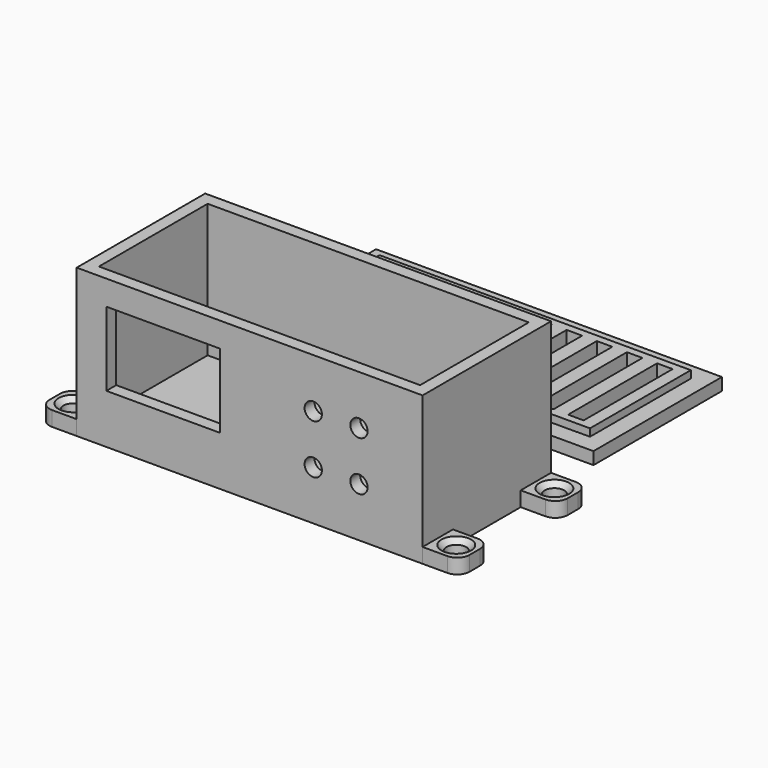
from build123d import *

# Parameters (mm, degrees)
F0_R      = 4
F0_W      = 5
F0_H      = 5
F0_W_2    = 130
F1_DEPTH  = 6
F2_SIZE   = 2
F2_2_SIZE = 2
F2_3_SIZE = 2
F3_DEPTH  = 60
F0_H_2    = 55
F4_DEPTH  = 6
F5_W      = 46
F5_H      = 30
F5_R      = 3.5
F6_DEPTH  = 5
F7_R      = 3.75
F8_DEPTH  = 5
F0_W_3    = 7
F0_H_3    = 7
F0_H_4    = 51
F9_DEPTH  = 5
F0_W_4    = 6.3
F0_H_5    = 45
F0_W_5    = 5.9
F0_W_6    = 1.9635334134
F0_W_7    = 1.9364665866
F0_H_6    = 3
F10_DEPTH = 8
F11_DEPTH = 25


with BuildPart() as f1:
    # F0 (on Top) → F1 (new body)
    with BuildSketch(Plane.XY):
        with BuildLine():
            Line((-70, 27.5), (-70, 32.5))
            Line((-70, 32.5), (-80, 32.5))
            ThreePointArc((-80, 32.5), (-83.5355339059, 31.0355339059), (-85, 27.5))
            Line((-85, 27.5), (-85, 22.1345490962))
            ThreePointArc((-85, 22.1345490962), (-83.5355339059, 18.5990151903), (-80, 17.1345490962))
            Line((-80, 17.1345490962), (-70, 17.1345490962))
            Line((-70, 17.1345490962), (-70, 27.5))
        make_face()
        with Locations((-77.5, 24.8172745481)):
            Circle(F0_R, mode=Mode.SUBTRACT)
        with Locations((-67.5, 30)):
            Rectangle(F0_W, F0_H)
        with Locations((0, 30)):
            Rectangle(F0_W_2, F0_H)
        with Locations((67.5, 30)):
            Rectangle(F0_W, F0_H)
        with BuildLine():
            Line((80, 32.5), (70, 32.5))
            Line((70, 32.5), (70, 27.5))
            Line((70, 27.5), (70, 17.1345490962))
            Line((70, 17.1345490962), (80, 17.1345490962))
            ThreePointArc((80, 17.1345490962), (83.5355339059, 18.5990151903), (85, 22.1345490962))
            Line((85, 22.1345490962), (85, 27.5))
            ThreePointArc((85, 27.5), (83.5355339059, 31.0355339059), (80, 32.5))
        make_face()
        with Locations((77.5, 24.8172745481)):
            Circle(F0_R, mode=Mode.SUBTRACT)
    extrude(amount=F1_DEPTH)

    # F2
    f2_edges = [f1.edges().sort_by_distance(p)[0] for p in [
        (-81.5, 24.817275, 6),
        (73.5, 24.817275, 6),
    ]]
    chamfer(f2_edges, length=F2_SIZE)


with BuildPart() as f1b:
    # F0 (on Top) → F1, piece 2 (new body)
    with BuildSketch(Plane.XY):
        with BuildLine():
            Line((-70, -27.5), (-70, -17.1345490962))
            Line((-70, -17.1345490962), (-80, -17.1345490962))
            ThreePointArc((-80, -17.1345490962), (-83.5355339059, -18.5990151903), (-85, -22.1345490962))
            Line((-85, -22.1345490962), (-85, -27.5))
            ThreePointArc((-85, -27.5), (-83.5355339059, -31.0355339059), (-80, -32.5))
            Line((-80, -32.5), (-70, -32.5))
            Line((-70, -32.5), (-70, -27.5))
        make_face()
        with Locations((-77.5, -24.8172745481)):
            Circle(F0_R, mode=Mode.SUBTRACT)
    extrude(amount=F1_DEPTH)

    # F2#2
    f2_2_edges = [f1b.edges().sort_by_distance(p)[0] for p in [
        (-81.5, -24.817275, 6),
    ]]
    chamfer(f2_2_edges, length=F2_2_SIZE)


with BuildPart() as f1c:
    # F0 (on Top) → F1, piece 3 (new body)
    with BuildSketch(Plane.XY):
        with BuildLine():
            Line((70, -17.1345490962), (70, -27.5))
            Line((70, -27.5), (70, -32.5))
            Line((70, -32.5), (80, -32.5))
            ThreePointArc((80, -32.5), (83.5355339059, -31.0355339059), (85, -27.5))
            Line((85, -27.5), (85, -22.1345490962))
            ThreePointArc((85, -22.1345490962), (83.5355339059, -18.5990151903), (80, -17.1345490962))
            Line((80, -17.1345490962), (70, -17.1345490962))
        make_face()
        with Locations((77.5, -24.8172745481)):
            Circle(F0_R, mode=Mode.SUBTRACT)
    extrude(amount=F1_DEPTH)

    # F2#3
    f2_3_edges = [f1c.edges().sort_by_distance(p)[0] for p in [
        (73.5, -24.817275, 6),
    ]]
    chamfer(f2_3_edges, length=F2_3_SIZE)


with BuildPart() as f3:
    # F0 (on Top) → F3 (new body)
    with BuildSketch(Plane.XY):
        Polygon((-65, 27.5), (-70, 27.5), (-70, 17.1345490962), (-70, -17.1345490962), (-70, -27.5), (-65, -27.5), align=None)
        with Locations((0, -30)):
            Rectangle(F0_W_2, F0_H)
        with Locations((-67.5, -30)):
            Rectangle(F0_W, F0_H)
        with Locations((67.5, -30)):
            Rectangle(F0_W, F0_H)
        Polygon((70, 27.5), (65, 27.5), (65, -27.5), (70, -27.5), (70, -17.1345490962), (70, 17.1345490962), align=None)
        with Locations((67.5, 30)):
            Rectangle(F0_W, F0_H)
        with Locations((0, 30)):
            Rectangle(F0_W_2, F0_H)
        with Locations((-67.5, 30)):
            Rectangle(F0_W, F0_H)
    extrude(amount=F3_DEPTH)

    # F5 (on face) → F6 (cut)
    with BuildSketch(Plane.XZ.offset(32.5)):
        with Locations((-35, 35)):
            Rectangle(F5_W, F5_H)
        with Locations((25.75, 40)):
            Circle(F5_R)
        with Locations((25.75, 20)):
            Circle(F5_R)
        with BuildLine():
            ThreePointArc((47.75, 40), (44.25, 43.5), (40.75, 40))
            ThreePointArc((40.75, 40), (44.25, 36.5), (47.75, 40))
        make_face()
        with BuildLine():
            ThreePointArc((47.75, 20), (44.25, 23.5), (40.75, 20))
            ThreePointArc((40.75, 20), (44.25, 16.5), (47.75, 20))
        make_face()
    extrude(amount=-F6_DEPTH, mode=Mode.SUBTRACT)

    # F7 (on face) → F8 (cut)
    with BuildSketch(Plane(origin=(0, 32.5, 0), x_dir=(-1, 0, 0), z_dir=(0, 1, 0))):
        with Locations((0, 14.525502791)):
            Circle(F7_R)
    extrude(amount=-F8_DEPTH, mode=Mode.SUBTRACT)


with BuildPart() as f4:
    # F0 (on Top) → F4 (new body)
    with BuildSketch(Plane.XY):
        Rectangle(F0_W_2, F0_H_2)
    extrude(amount=F4_DEPTH)


with BuildPart() as f9:
    # F0 (on Top) → F9 (new body)
    with BuildSketch(Plane.XY):
        with Locations((66.5, 115.4563803077)):
            Rectangle(F0_W_3, F0_H_3)
        Polygon((63, 118.9563803077), (-63, 118.9563803077), (-63, 112.5258132815), (-63, 111.9563803077), (-58.0635334134, 111.9563803077), (-51.7635334134, 111.9563803077), (-45.8635334134, 111.9563803077), (-39.5635334134, 111.9563803077), (-33.6635334134, 111.9563803077), (-27.3635334134, 111.9563803077), (-21.4635334134, 111.9563803077), (-15.1635334134, 111.9563803077), (-9.2635334134, 111.9563803077), (-2.9635334134, 111.9563803077), (2.9364665866, 111.9563803077), (9.2364665866, 111.9563803077), (15.1364665866, 111.9563803077), (21.4364665866, 111.9563803077), (27.3364665866, 111.9563803077), (33.6364665866, 111.9563803077), (39.5364665866, 111.9563803077), (45.8364665866, 111.9563803077), (51.7364665866, 111.9563803077), (58.0364665866, 111.9563803077), (63, 111.9563803077), align=None)
        with Locations((66.5, 86.4563803077)):
            Rectangle(F0_W_3, F0_H_4)
        with Locations((66.5, 57.4563803077)):
            Rectangle(F0_W_3, F0_H_3)
        Polygon((63, 53.9563803077), (63, 60.9563803077), (58.0364665866, 60.9563803077), (58.0364665866, 60.9103041655), (51.7364665866, 60.9103041655), (45.8364665866, 60.9103041655), (39.5364665866, 60.9103041655), (33.6364665866, 60.9103041655), (27.3364665866, 60.9103041655), (21.4364665866, 60.9103041655), (15.1364665866, 60.9103041655), (9.2364665866, 60.9103041655), (2.9364665866, 60.9103041655), (-2.9635334134, 60.9103041655), (-9.2635334134, 60.9103041655), (-15.1635334134, 60.9103041655), (-21.4635334134, 60.9103041655), (-27.3635334134, 60.9103041655), (-33.6635334134, 60.9103041655), (-39.5635334134, 60.9103041655), (-45.8635334134, 60.9103041655), (-51.7635334134, 60.9103041655), (-58.0635334134, 60.9103041655), (-63, 60.9103041655), (-63, 53.9563803077), align=None)
        Polygon((-63, 60.9563803077), (-70, 60.9563803077), (-70, 53.9563803077), (-63, 53.9563803077), (-63, 60.9103041655), align=None)
        with Locations((-66.5, 86.4563803077)):
            Rectangle(F0_W_3, F0_H_4)
        Polygon((-63, 118.9563803077), (-70, 118.9563803077), (-70, 111.9563803077), (-63, 111.9563803077), (-63, 112.5258132815), align=None)
    extrude(amount=F9_DEPTH)

    # F0 (on Top) → F10 (join)
    with BuildSketch(Plane.XY):
        with Locations((-54.9135334134, 86.4563803077)):
            Rectangle(F0_W_4, F0_H_5)
        with Locations((-48.8135334134, 86.4563803077)):
            Rectangle(F0_W_5, F0_H_5)
        with Locations((-42.7135334134, 86.4563803077)):
            Rectangle(F0_W_4, F0_H_5)
        with Locations((-36.6135334134, 86.4563803077)):
            Rectangle(F0_W_5, F0_H_5)
        with Locations((-30.5135334134, 86.4563803077)):
            Rectangle(F0_W_4, F0_H_5)
        with Locations((-24.4135334134, 86.4563803077)):
            Rectangle(F0_W_5, F0_H_5)
        with Locations((-18.3135334134, 86.4563803077)):
            Rectangle(F0_W_4, F0_H_5)
        with Locations((-12.2135334134, 86.4563803077)):
            Rectangle(F0_W_5, F0_H_5)
        with Locations((-6.1135334134, 86.4563803077)):
            Rectangle(F0_W_4, F0_H_5)
        with Locations((-0.0135334134, 86.4563803077)):
            Rectangle(F0_W_5, F0_H_5)
        with Locations((6.0864665866, 86.4563803077)):
            Rectangle(F0_W_4, F0_H_5)
        with Locations((12.1864665866, 86.4563803077)):
            Rectangle(F0_W_5, F0_H_5)
        with Locations((18.2864665866, 86.4563803077)):
            Rectangle(F0_W_4, F0_H_5)
        with Locations((24.3864665866, 86.4563803077)):
            Rectangle(F0_W_5, F0_H_5)
        with Locations((30.4864665866, 86.4563803077)):
            Rectangle(F0_W_4, F0_H_5)
        with Locations((36.5864665866, 86.4563803077)):
            Rectangle(F0_W_5, F0_H_5)
        with Locations((42.6864665866, 86.4563803077)):
            Rectangle(F0_W_4, F0_H_5)
        with Locations((48.7864665866, 86.4563803077)):
            Rectangle(F0_W_5, F0_H_5)
        with Locations((54.8864665866, 86.4563803077)):
            Rectangle(F0_W_4, F0_H_5)
        with Locations((59.0182332933, 86.4563803077)):
            Rectangle(F0_W_6, F0_H_5)
        Polygon((63, 60.9563803077), (63, 111.9563803077), (58.0364665866, 111.9563803077), (58.0364665866, 108.9563803077), (60, 108.9563803077), (60, 63.9563803077), (58.0364665866, 63.9563803077), (58.0364665866, 60.9563803077), align=None)
        Polygon((-58.0635334134, 111.9563803077), (-63, 111.9563803077), (-63, 60.9563803077), (-58.0635334134, 60.9563803077), (-58.0635334134, 63.9563803077), (-60, 63.9563803077), (-60, 108.9563803077), (-58.0635334134, 108.9563803077), align=None)
        with Locations((-59.0317667067, 86.4563803077)):
            Rectangle(F0_W_7, F0_H_5)
        with Locations((-54.9135334134, 62.4563803077)):
            Rectangle(F0_W_4, F0_H_6)
        with Locations((-48.8135334134, 62.4563803077)):
            Rectangle(F0_W_5, F0_H_6)
        with Locations((-42.7135334134, 62.4563803077)):
            Rectangle(F0_W_4, F0_H_6)
        with Locations((-36.6135334134, 62.4563803077)):
            Rectangle(F0_W_5, F0_H_6)
        with Locations((-30.5135334134, 62.4563803077)):
            Rectangle(F0_W_4, F0_H_6)
        with Locations((-24.4135334134, 62.4563803077)):
            Rectangle(F0_W_5, F0_H_6)
        with Locations((-18.3135334134, 62.4563803077)):
            Rectangle(F0_W_4, F0_H_6)
        with Locations((-12.2135334134, 62.4563803077)):
            Rectangle(F0_W_5, F0_H_6)
        with Locations((-6.1135334134, 62.4563803077)):
            Rectangle(F0_W_4, F0_H_6)
        with Locations((-0.0135334134, 62.4563803077)):
            Rectangle(F0_W_5, F0_H_6)
        with Locations((6.0864665866, 62.4563803077)):
            Rectangle(F0_W_4, F0_H_6)
        with Locations((12.1864665866, 62.4563803077)):
            Rectangle(F0_W_5, F0_H_6)
        with Locations((18.2864665866, 62.4563803077)):
            Rectangle(F0_W_4, F0_H_6)
        with Locations((24.3864665866, 62.4563803077)):
            Rectangle(F0_W_5, F0_H_6)
        with Locations((30.4864665866, 62.4563803077)):
            Rectangle(F0_W_4, F0_H_6)
        with Locations((36.5864665866, 62.4563803077)):
            Rectangle(F0_W_5, F0_H_6)
        with Locations((42.6864665866, 62.4563803077)):
            Rectangle(F0_W_4, F0_H_6)
        with Locations((48.7864665866, 62.4563803077)):
            Rectangle(F0_W_5, F0_H_6)
        with Locations((54.8864665866, 62.4563803077)):
            Rectangle(F0_W_4, F0_H_6)
        with Locations((54.8864665866, 110.4563803077)):
            Rectangle(F0_W_4, F0_H_6)
        with Locations((48.7864665866, 110.4563803077)):
            Rectangle(F0_W_5, F0_H_6)
        with Locations((42.6864665866, 110.4563803077)):
            Rectangle(F0_W_4, F0_H_6)
        with Locations((36.5864665866, 110.4563803077)):
            Rectangle(F0_W_5, F0_H_6)
        with Locations((30.4864665866, 110.4563803077)):
            Rectangle(F0_W_4, F0_H_6)
        with Locations((24.3864665866, 110.4563803077)):
            Rectangle(F0_W_5, F0_H_6)
        with Locations((18.2864665866, 110.4563803077)):
            Rectangle(F0_W_4, F0_H_6)
        with Locations((12.1864665866, 110.4563803077)):
            Rectangle(F0_W_5, F0_H_6)
        with Locations((6.0864665866, 110.4563803077)):
            Rectangle(F0_W_4, F0_H_6)
        with Locations((-0.0135334134, 110.4563803077)):
            Rectangle(F0_W_5, F0_H_6)
        with Locations((-6.1135334134, 110.4563803077)):
            Rectangle(F0_W_4, F0_H_6)
        with Locations((-12.2135334134, 110.4563803077)):
            Rectangle(F0_W_5, F0_H_6)
        with Locations((-18.3135334134, 110.4563803077)):
            Rectangle(F0_W_4, F0_H_6)
        with Locations((-24.4135334134, 110.4563803077)):
            Rectangle(F0_W_5, F0_H_6)
        with Locations((-30.5135334134, 110.4563803077)):
            Rectangle(F0_W_4, F0_H_6)
        with Locations((-54.9135334134, 110.4563803077)):
            Rectangle(F0_W_4, F0_H_6)
        with Locations((-48.8135334134, 110.4563803077)):
            Rectangle(F0_W_5, F0_H_6)
        with Locations((-42.7135334134, 110.4563803077)):
            Rectangle(F0_W_4, F0_H_6)
        with Locations((-36.6135334134, 110.4563803077)):
            Rectangle(F0_W_5, F0_H_6)
    extrude(amount=F10_DEPTH)

    # F0 (on Top) → F11 (cut)
    with BuildSketch(Plane.XY):
        with Locations((54.8864665866, 86.4563803077)):
            Rectangle(F0_W_4, F0_H_5)
        with Locations((42.6864665866, 86.4563803077)):
            Rectangle(F0_W_4, F0_H_5)
        with Locations((30.4864665866, 86.4563803077)):
            Rectangle(F0_W_4, F0_H_5)
        with Locations((18.2864665866, 86.4563803077)):
            Rectangle(F0_W_4, F0_H_5)
        with Locations((6.0864665866, 86.4563803077)):
            Rectangle(F0_W_4, F0_H_5)
        with Locations((-6.1135334134, 86.4563803077)):
            Rectangle(F0_W_4, F0_H_5)
        with Locations((-18.3135334134, 86.4563803077)):
            Rectangle(F0_W_4, F0_H_5)
        with Locations((-30.5135334134, 86.4563803077)):
            Rectangle(F0_W_4, F0_H_5)
        with Locations((-42.7135334134, 86.4563803077)):
            Rectangle(F0_W_4, F0_H_5)
        with Locations((-54.9135334134, 86.4563803077)):
            Rectangle(F0_W_4, F0_H_5)
    extrude(amount=F11_DEPTH, mode=Mode.SUBTRACT)


solid = Compound([f1.part, f1b.part, f1c.part, f3.part, f4.part, f9.part])
